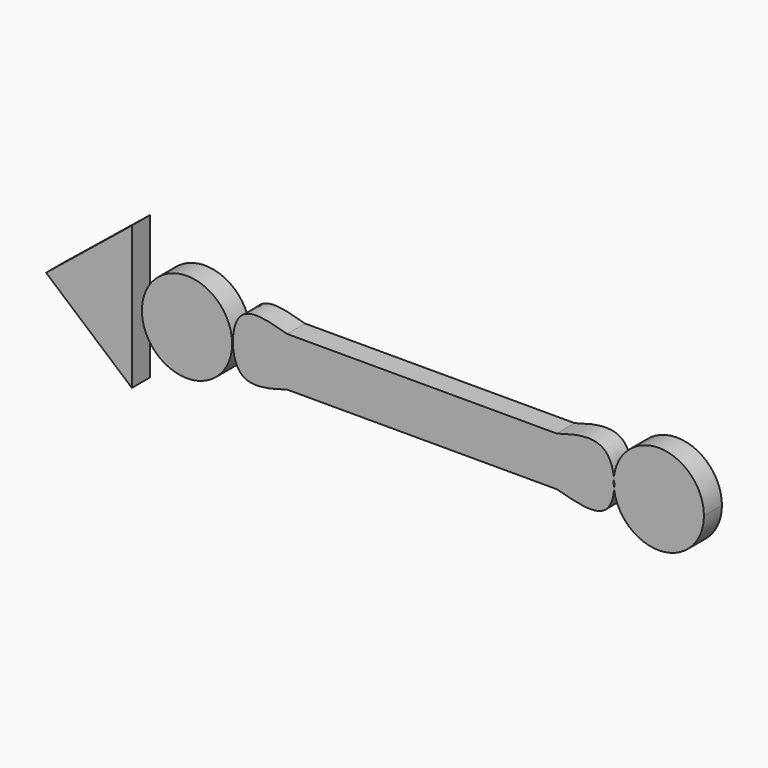
from build123d import *

# Parameters (mm, degrees)
F0_R     = 5.0936014399
F1_DEPTH = 2.54
F0_W     = 30.4318889836
F0_H     = 5.5338330567
F3_DEPTH = 2.54


with BuildPart() as f1:
    # F0 (on Front) → F1 (new body)
    with BuildSketch(Plane.XZ):
        with Locations((-26.516282931, -0.2305764065)):
            Circle(F0_R)
    extrude(amount=F1_DEPTH)


with BuildPart() as f1b:
    # F0 (on Front) → F1, piece 2 (new body)
    with BuildSketch(Plane.XZ):
        with BuildLine():
            Line((-15.2159444918, -2.7669165283), (-15.2159444918, 2.7669165283))
            add(Edge.make_bspline(
                [(-15.2159444918, 2.7669165283), (-17.353574529, 3.3890009994), (-21.6072523116, 4.5581842569), (-21.6072523116, -4.5581842569), (-17.353574529, -3.3890009994), (-15.2159444918, -2.7669165283)],
                knots=[0, 0, 0, 0, 0.3309826804, 0.6690173196, 1, 1, 1, 1], degree=3))
        make_face()
        Rectangle(F0_W, F0_H)
        with BuildLine():
            add(Edge.make_bspline(
                [(15.2159444918, 2.7669165283), (17.2424814102, 3.3810666967), (20.5257650284, 4.2502424817), (21.5698992066, 1.4033496754), (21.6783749574, 0.5052101466)],
                knots=[0, 0, 0, 0, 0.3310318426, 0.4709428235, 0.4709428235, 0.4709428235, 0.4709428235], degree=3))
            Line((15.2159444918, 2.7669165283), (15.2159444918, -2.7669165283))
            add(Edge.make_bspline(
                [(21.7025060841, -0.7065914512), (21.6355969577, -1.5246852191), (20.7689928637, -4.2742452326), (17.5977275056, -3.4187762085), (15.2159444918, -2.7669165283)],
                knots=[0.5335157542, 0.5335157542, 0.5335157542, 0.5335157542, 0.6621445845, 1, 1, 1, 1], degree=3))
            ThreePointArc((21.7025060841, -0.7065914512), (21.6542679542, -0.1014109722), (21.6783749574, 0.5052101466))
        make_face()
    extrude(amount=F1_DEPTH)


with BuildPart() as f1c:
    # F0 (on Front) → F1, piece 3 (new body)
    with BuildSketch(Plane.XZ):
        with BuildLine():
            ThreePointArc((31.8404612138, 0), (26.9997768242, 5.0873184089), (21.6783749574, 0.5052101466))
            add(Edge.make_bspline(
                [(21.6783749574, 0.5052101466), (21.7268889883, 0.1035317212), (21.7350547757, -0.3086206032), (21.7025060841, -0.7065914512)],
                knots=[0.4709428235, 0.4709428235, 0.4709428235, 0.4709428235, 0.5335157542, 0.5335157542, 0.5335157542, 0.5335157542], degree=3))
            ThreePointArc((21.7025060841, -0.7065914512), (27.1010125729, -5.0812745865), (31.8404612138, 0))
        make_face()
    extrude(amount=F1_DEPTH)


with BuildPart() as f3:
    # F2 (on Front) → F3 (new body)
    with BuildSketch(Plane.XZ):
        Polygon((-32.7418446541, -8.300749585), (-32.7418446541, 0), (-32.7418446541, 7.8395968303), (-42.4260534346, 0), align=None)
    extrude(amount=F3_DEPTH)


solid = Compound([f1.part, f1b.part, f1c.part, f3.part])
